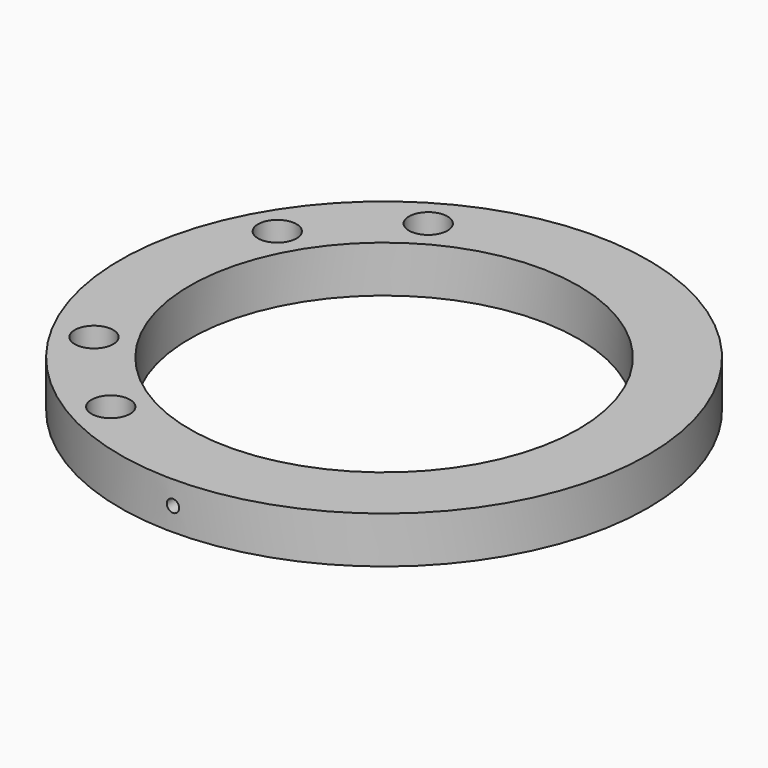
from build123d import *

# Parameters (mm, degrees)
SKETCH_R              = 42.45
SKETCH_R_2            = 31.25
PAD_DEPTH             = 7.5
SKETCH011_R           = 3.1
POCKET003_DEPTH       = 7.501
SKETCH024_R           = 1
POCKET012_DEPTH       = 6
POLARPATTERN001_COUNT = 3
POLARPATTERN001_ANGLE = 180


with BuildPart() as part:
    # Sketch → Pad (new body)
    with BuildSketch(Plane.XY):
        Circle(SKETCH_R)
        Circle(SKETCH_R_2, mode=Mode.SUBTRACT)
    extrude(amount=PAD_DEPTH)

    # Sketch011 (on DatumPlane) → Pocket003 (cut, through all)
    with BuildSketch(Plane.XY.offset(7.5)):
        with Locations((-31.913036, 18.425)):
            Circle(SKETCH011_R)
        with Locations((-31.913036, -18.425)):
            Circle(SKETCH011_R)
        with Locations((-18.425, 31.913036)):
            Circle(SKETCH011_R)
        with Locations((-18.425, -31.913036)):
            Circle(SKETCH011_R)
    extrude(amount=-POCKET003_DEPTH, mode=Mode.SUBTRACT)

    # Sketch024 (on DatumPlane) → Pocket012 (cut)
    with BuildSketch(Plane.XZ.offset(42.45)):
        with Locations((0, 3.75)):
            Circle(SKETCH024_R)
    pocket012 = extrude(amount=-POCKET012_DEPTH, mode=Mode.SUBTRACT)

    # PolarPattern001: Pocket012 ×3 about axis
    polarpattern001_axis = Axis((0, 0, 0), (0, 0, -1))
    for i in range(1, POLARPATTERN001_COUNT):
        add(pocket012.rotate(polarpattern001_axis, i * POLARPATTERN001_ANGLE / (POLARPATTERN001_COUNT - 1)), mode=Mode.SUBTRACT)


with BuildPart() as part_1:
    # Body placement: moved
    add(part.part.moved(Location((0, 0, -12))))


solid = part_1.part
